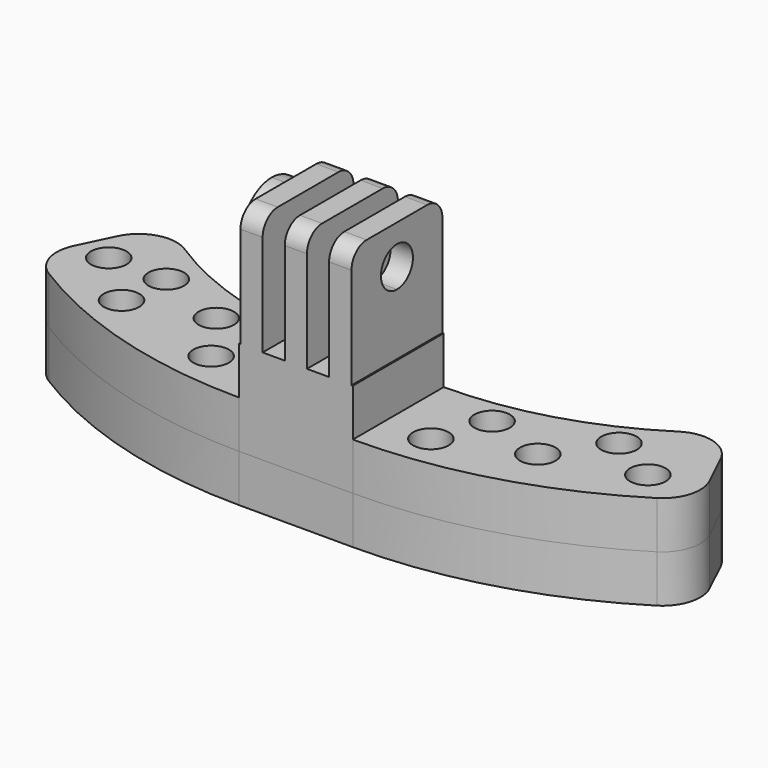
from build123d import *

# Parameters (mm, degrees)
F1_DEPTH  = 12.7
F2_DEPTH  = 6.35
F3_R      = 5.08
F5_DEPTH  = 16.129
F6_R      = 2.54
F8_DEPTH  = 1.905
F9_DEPTH  = 25.4
F10_DEPTH = 6.35
F11_R     = 5.08
F12_R     = 2.3876
F12_R_2   = 2.38125
F13_DEPTH = 25.4


with BuildPart() as f1:
    # F0 (on Top) → F1 (new body)
    with BuildSketch(Plane.XY):
        Polygon((-9.5249999947, -9.5171659061), (5.7150000053, -9.5171659061), (5.715, 5.7224314644), (-9.5249999947, 5.7228340939), align=None)
    extrude(amount=F1_DEPTH)

    # F0 (on Top) → F2 (join)
    with BuildSketch(Plane.XY):
        Polygon((-9.5249999947, -9.5171659061), (5.7150000053, -9.5171659061), (5.715, 5.7224314644), (-9.5249999947, 5.7228340939), align=None)
        with BuildLine():
            Line((5.715, 5.7224314644), (5.7150000053, -9.5171659061))
            ThreePointArc((5.7150000053, -9.5171659061), (25.1316562711, -6.4199838977), (42.6212000011, 2.5641653136))
            Line((42.6212000011, 2.5641653136), (35.8902, 16.6364886732))
            ThreePointArc((35.8902, 16.6364886732), (21.759226972, 8.5345765345), (5.715, 5.7224314644))
        make_face()
        with BuildLine():
            ThreePointArc((-46.4423559262, 2.5641652954), (-28.946957495, -6.420028038), (-9.5249999947, -9.5171659061))
            Line((-9.5249999947, -9.5171659061), (-9.5249999947, 5.7228340939))
            ThreePointArc((-9.5249999947, 5.7228340939), (-25.5675233424, 8.5352969483), (-39.6970383838, 16.6364886732))
            Line((-39.6970383838, 16.6364886732), (-46.4423559262, 2.5641652954))
        make_face()
    extrude(amount=F2_DEPTH)

    # F3
    f3_edges = [f1.edges().sort_by_distance(p)[0] for p in [
        (42.6212, 2.564165, 3.175),
        (35.8902, 16.636489, 3.175),
        (-46.442356, 2.564165, 3.175),
        (-39.697038, 16.636489, 3.175),
    ]]
    fillet(f3_edges, radius=F3_R)

    # F4 (on face) → F5 (join)
    with BuildSketch(Plane.XY.offset(12.7)):
        Polygon((-6.3749973654, 5.7228293965), (-9.3471999947, 5.7228293965), (-9.3471999947, -9.5171659061), (-6.3753999947, -9.5171659061), align=None)
        Polygon((-0.4313973706, 5.7225938477), (-3.4031973696, 5.7226723604), (-3.4031973696, -9.5171659061), (-0.4313973706, -9.5171659061), align=None)
        Polygon((5.5372, 5.7224361618), (2.5404026283, 5.7225153349), (2.5404026283, -9.5171659061), (5.5372000054, -9.5171659061), align=None)
    extrude(amount=F5_DEPTH)

    # F6
    f6_edges = [f1.edges().sort_by_distance(p)[0] for p in [
        (-7.8613, -9.517166, 28.829),
        (-1.917297, -9.517166, 28.829),
        (4.038801, -9.517166, 28.829),
        (-7.861099, 5.722829, 28.829),
        (-1.917297, 5.722633, 28.829),
        (4.038801, 5.722476, 28.829),
    ]]
    fillet(f6_edges, radius=F6_R)

    # F7 (on face) → F8 (join)
    with BuildSketch(Plane(origin=(-9.3471999947, 0, 0), x_dir=(0, -1, 0), z_dir=(-1, 0, 0))):
        with BuildLine():
            ThreePointArc((6.9771682551, 23.5984418541), (5.4892707036, 27.1905443025), (1.8971682553, 28.6784418541))
            Line((1.8971682553, 28.6784418541), (1.8971682552, 26.2781418541))
            ThreePointArc((1.8971682552, 26.2781418541), (3.7920022967, 25.4932758956), (4.5768682551, 23.5984418541))
            ThreePointArc((4.5768682551, 23.5984418541), (3.7920022966, 21.7036078125), (1.897168255, 20.9187418541))
            Line((1.897168255, 20.9187418541), (1.897168255, 18.5184418541))
            ThreePointArc((1.897168255, 18.5184418541), (5.4892707035, 20.0063394056), (6.9771682551, 23.5984418541))
        make_face()
        with BuildLine():
            Line((1.8971682552, 26.2781418541), (1.8971682553, 28.6784418541))
            ThreePointArc((1.8971682553, 28.6784418541), (-3.1828317449, 23.5984418543), (1.897168255, 18.5184418541))
            Line((1.897168255, 18.5184418541), (1.897168255, 20.9187418541))
            ThreePointArc((1.897168255, 20.9187418541), (-0.7825317449, 23.5984418542), (1.8971682552, 26.2781418541))
        make_face()
    extrude(amount=F8_DEPTH)

    # F9 (cut): a face of the model
    f9_faces = [f1.faces().sort_by_distance(p)[0] for p in [
        (-9.3471999947, -1.8971682551, 23.5984418541),
    ]]
    extrude(f9_faces, amount=-F9_DEPTH, mode=Mode.SUBTRACT)


with BuildPart() as f10:
    # F0 (on Top) → F10 (new body)
    with BuildSketch(Plane.XY):
        Polygon((-9.5249999947, -9.5171659061), (5.7150000053, -9.5171659061), (5.715, 5.7224314644), (-9.5249999947, 5.7228340939), align=None)
        with BuildLine():
            ThreePointArc((-46.4423559262, 2.5641652954), (-28.946957495, -6.420028038), (-9.5249999947, -9.5171659061))
            Line((-9.5249999947, -9.5171659061), (-9.5249999947, 5.7228340939))
            ThreePointArc((-9.5249999947, 5.7228340939), (-25.5675233424, 8.5352969483), (-39.6970383838, 16.6364886732))
            Line((-39.6970383838, 16.6364886732), (-46.4423559262, 2.5641652954))
        make_face()
        with BuildLine():
            Line((5.715, 5.7224314644), (5.7150000053, -9.5171659061))
            ThreePointArc((5.7150000053, -9.5171659061), (25.1316562711, -6.4199838977), (42.6212000011, 2.5641653136))
            Line((42.6212000011, 2.5641653136), (35.8902, 16.6364886732))
            ThreePointArc((35.8902, 16.6364886732), (21.759226972, 8.5345765345), (5.715, 5.7224314644))
        make_face()
    extrude(amount=-F10_DEPTH)

    # F11
    f11_edges = [f10.edges().sort_by_distance(p)[0] for p in [
        (-46.442356, 2.564165, -3.175),
        (42.6212, 2.564165, -3.175),
        (35.8902, 16.636489, -3.175),
        (-39.697038, 16.636489, -3.175),
    ]]
    fillet(f11_edges, radius=F11_R)


with BuildPart() as f13_tool:
    # F12 (on face) → F13 (new body)
    with BuildSketch(Plane.XY.offset(6.35)):
        with Locations((-39.9788804352, 6.6874679178)):
            Circle(F12_R)
        with Locations((-32.2577409587, 6.683533058)):
            Circle(F12_R)
        with Locations((-32.9145033596, 0)):
            Circle(F12_R)
        with Locations((-22.6343214557, 3.0354140584)):
            Circle(F12_R_2)
        with Locations((-17.6851684754, -4.0158115783)):
            Circle(F12_R)
        with Locations((11.9945333312, -4.2797915162)):
            Circle(F12_R)
        with Locations((14.4908986986, 2.855056664)):
            Circle(F12_R)
        with Locations((22.90799764, 0)):
            Circle(F12_R)
        with Locations((27.9860403389, 7.2556459345)):
            Circle(F12_R)
        with Locations((34.8314009607, 3.5395927262)):
            Circle(F12_R)
    extrude(amount=-F13_DEPTH)


with BuildPart() as f1_1:
    add(f1.part)

    # F13: cut by f13_tool
    add(f13_tool.part, mode=Mode.SUBTRACT)


with BuildPart() as f10_1:
    add(f10.part)

    # F13: cut by f13_tool
    add(f13_tool.part, mode=Mode.SUBTRACT)


solid = Compound([f1_1.part, f10_1.part])
